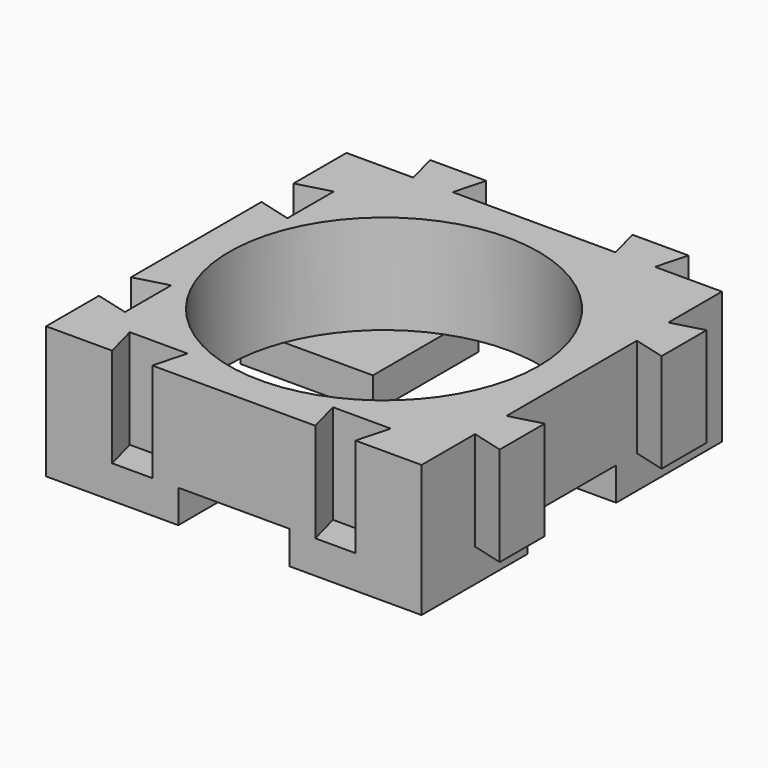
from build123d import *

# Parameters (mm, degrees)
F0_R     = 9.362717
F1_DEPTH = 6
F2_W     = 8
F2_H     = 8
F3_DEPTH = 2


with BuildPart() as f1:
    # F0 (on Top) → F1 (new body)
    with BuildSketch(Plane.XY):
        Polygon((0, 4), (0, 0), (4, 0), (3.464102, 2), (6.964102, 2), (6.428203, 0), (16.29723, 0), (15.761332, 2), (19.261332, 2), (18.725433, 0), (22.725433, 0), (22.725433, 4.05), (22.725433, 6.431793), (22.725433, 16.29364), (22.725433, 18.675433), (22.725433, 22.725433), (18.675433, 22.725433), (16.29364, 22.725433), (6.431793, 22.725433), (4.05, 22.725433), (0, 22.725433), (0, 18.725433), (2, 19.261332), (2, 15.761332), (0, 16.29723), (0, 6.428203), (2, 6.964102), (2, 3.464102), align=None)
        with Locations((11.362717, 11.362717)):
            Circle(F0_R, mode=Mode.SUBTRACT)
        Polygon((22.725433, 6.431793), (22.725433, 4.05), (24.625433, 3.540897), (24.625433, 6.940897), align=None)
        Polygon((3.540897, 24.625433), (4.05, 22.725433), (6.431793, 22.725433), (6.940897, 24.625433), align=None)
        Polygon((22.725433, 18.675433), (22.725433, 16.29364), (24.625433, 15.784537), (24.625433, 19.184537), align=None)
        Polygon((15.784537, 24.625433), (16.29364, 22.725433), (18.675433, 22.725433), (19.184537, 24.625433), align=None)
    extrude(amount=F1_DEPTH)

    # F2 (on face) → F3 (join)
    with BuildSketch(Plane(origin=(0, 0, 0), x_dir=(1, 0, 0), z_dir=(0, 0, -1))):
        with Locations((4, -4)):
            Rectangle(F2_W, F2_H)
        with Locations((4, -18.725433)):
            Rectangle(F2_W, F2_H)
        with Locations((18.725433, -18.725433)):
            Rectangle(F2_W, F2_H)
        with Locations((18.725433, -4)):
            Rectangle(F2_W, F2_H)
    extrude(amount=F3_DEPTH)


solid = f1.part
